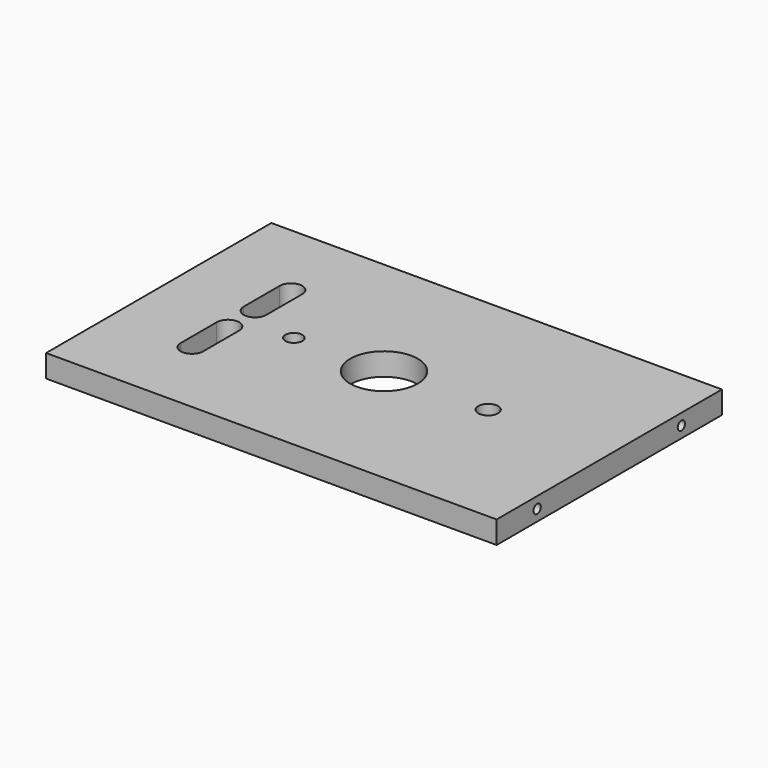
from build123d import *

# Parameters (mm, degrees)
F0_W      = 254
F0_H      = 158.75
F1_DEPTH  = 12.7
F2_R      = 19.05
F3_DEPTH  = 12.701
F5_D      = 5.1054
F5_DEPTH  = 38.1
F5_TIP    = 1.5338169022
F7_D      = 5.1054
F7_DEPTH  = 38.1
F7_TIP    = 1.5338169022
F9_D      = 9.525
F11_D     = 11.1125
F13_DEPTH = 12.701
F15_DEPTH = 12.701


with BuildPart() as f1:
    # F0 (on Top) → F1 (new body)
    with BuildSketch(Plane.XY):
        with Locations((127, -79.375)):
            Rectangle(F0_W, F0_H)
    extrude(amount=F1_DEPTH)

    # F2 (on face) → F3 (cut, through all)
    with BuildSketch(Plane.XY.offset(12.7)):
        with Locations((127, -79.375)):
            Circle(F2_R)
    extrude(amount=-F3_DEPTH, mode=Mode.SUBTRACT)

    # F5
    with Locations(Plane.YZ.offset(254)):
        with Locations((-28.575, 6.35), (-130.175, 6.35)):
            Hole(F5_D / 2, depth=F5_DEPTH)
            with Locations((0, 0, -(F5_DEPTH + F5_TIP / 2))):  # 118° drill point
                Cone(0, F5_D / 2, F5_TIP, mode=Mode.SUBTRACT)

    # F7
    with Locations(Plane(origin=(0, 0, 0), x_dir=(0, -1, 0), z_dir=(-1, 0, 0))):
        with Locations((28.575, 6.35), (130.175, 6.35)):
            Hole(F7_D / 2, depth=F7_DEPTH)
            with Locations((0, 0, -(F7_DEPTH + F7_TIP / 2))):  # 118° drill point
                Cone(0, F7_D / 2, F7_TIP, mode=Mode.SUBTRACT)

    # F9 (through all)
    with Locations(Plane.XY.offset(12.7)):
        with Locations((76.2, -79.375)):
            Hole(F9_D / 2)

    # F11 (through all)
    with Locations(Plane.XY.offset(12.7)):
        with Locations((185.7375, -79.375)):
            Hole(F11_D / 2)

    # F12 (on face) → F13 (cut, through all)
    with BuildSketch(Plane.XY.offset(12.7)):
        with BuildLine():
            Line((40.3130046014, -44.4888598491), (40.3128856958, -69.849970228))
            ThreePointArc((40.3128856958, -69.849970228), (46.6526663673, -76.1999917768), (53.0128528986, -69.8704088586))
            ThreePointArc((53.0128528986, -69.8704088586), (53.0128856957, -69.85), (53.0128528986, -69.8295911414))
            Line((53.0128528986, -69.8295911414), (53.0128528986, -44.4704088586))
            ThreePointArc((53.0128528986, -44.4704088586), (46.6536601, -38.1000067017), (40.3130046014, -44.4888598491))
        make_face()
    extrude(amount=-F13_DEPTH, mode=Mode.SUBTRACT)

    # F14 (on face) → F15 (cut, through all)
    with BuildSketch(Plane.XY.offset(12.7)):
        with BuildLine():
            Line((53.0230747203, -114.2974009173), (53.0126976141, -88.9443724583))
            ThreePointArc((53.0126976141, -88.9443724583), (46.6952616172, -82.5602611748), (40.3332976057, -88.9))
            Line((40.3332976057, -88.9), (40.3332976057, -113.9398342138))
            Line((40.3332976057, -113.9398342138), (40.3332976057, -114.6601657862))
            ThreePointArc((40.3332976057, -114.6601657862), (46.8545296788, -120.647406895), (53.0230747203, -114.2974009173))
        make_face()
        with BuildLine():
            Line((40.3332976057, -114.6601657862), (40.3332976057, -113.9398342138))
            ThreePointArc((40.3332976057, -113.9398342138), (40.3230752522, -114.3), (40.3332976057, -114.6601657862))
        make_face()
    extrude(amount=-F15_DEPTH, mode=Mode.SUBTRACT)


solid = f1.part
